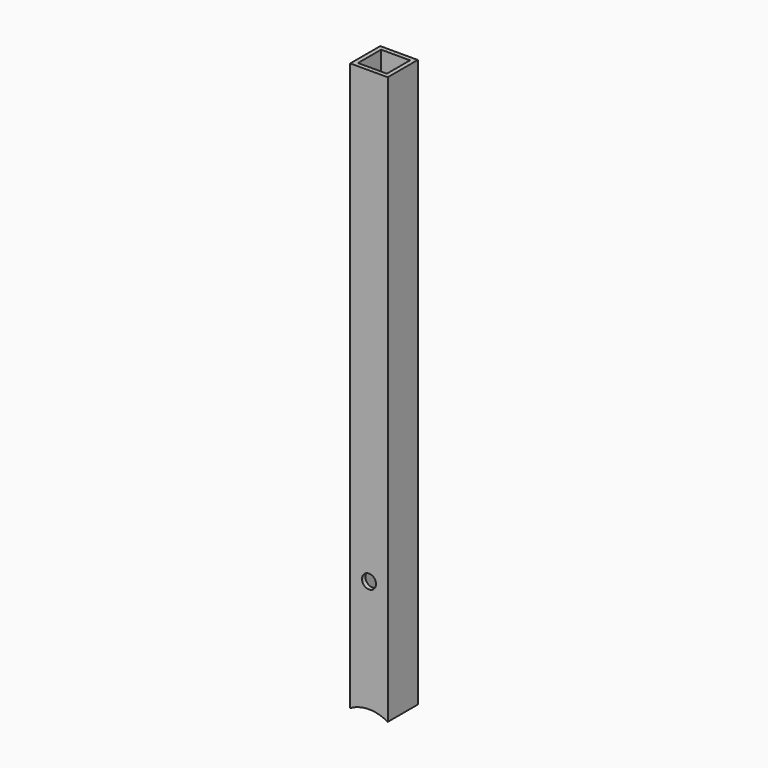
from build123d import *

# Parameters (mm, degrees)
F0_W     = 12.7
F0_H     = 12.7
F1_DEPTH = 203.2
F3_DEPTH = 25.4
F4_W     = 9.7917
F4_H     = 9.7917
F5_DEPTH = 254
F6_R     = 2.38125
F7_DEPTH = 25.4


with BuildPart() as f1:
    # F0 (on Top) → F1 (new body)
    with BuildSketch(Plane.XY):
        with Locations((6.35, 6.35)):
            Rectangle(F0_W, F0_H)
    extrude(amount=F1_DEPTH)

    # F2 (on face) → F3 (cut)
    with BuildSketch(Plane.XZ):
        with BuildLine():
            ThreePointArc((0, 10.998523), (0, -10.998523), (19.05, 0))
            ThreePointArc((19.05, 0), (17.348523, 6.35), (12.7, 10.998523))
            Line((12.7, 10.998523), (12.7, 0))
            Line((12.7, 0), (0, 0))
            Line((0, 0), (0, 10.998523))
        make_face()
        with BuildLine():
            Line((12.7, 0), (12.7, 10.998523))
            ThreePointArc((12.7, 10.998523), (6.35, 12.7), (0, 10.998523))
            Line((0, 10.998523), (0, 0))
            Line((0, 0), (12.7, 0))
        make_face()
    extrude(amount=-F3_DEPTH, mode=Mode.SUBTRACT)

    # F4 (on face) → F5 (cut)
    with BuildSketch(Plane.XY.offset(203.2)):
        with Locations((6.35, 6.35)):
            Rectangle(F4_W, F4_H)
    extrude(amount=-F5_DEPTH, mode=Mode.SUBTRACT)

    # F6 (on face) → F7 (cut)
    with BuildSketch(Plane.XZ):
        with Locations((6.35, 50.8)):
            Circle(F6_R)
    extrude(amount=-F7_DEPTH, mode=Mode.SUBTRACT)


solid = f1.part
